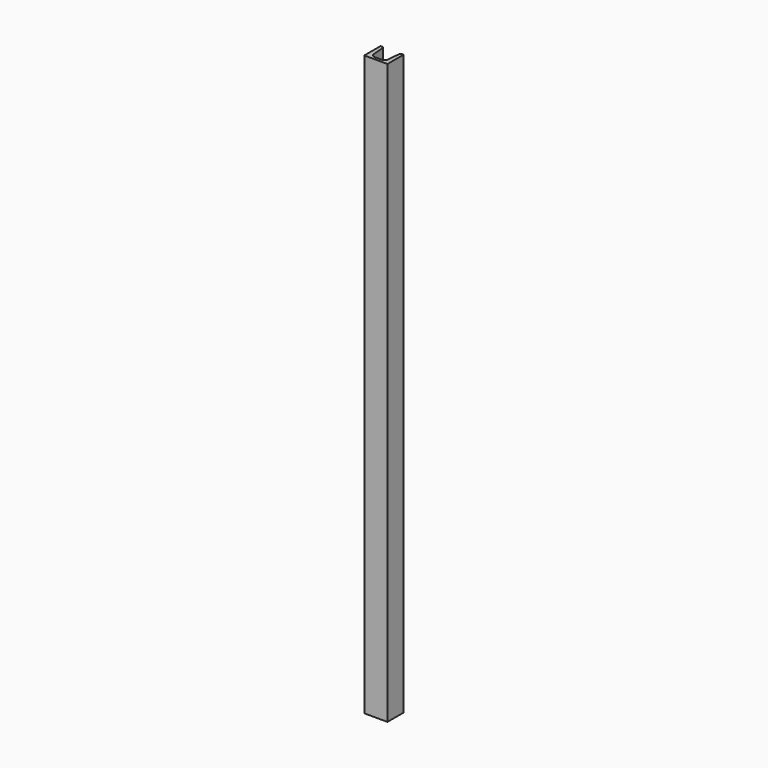
from build123d import *

# Parameters (mm, degrees)
F1_DEPTH = 1000
F2_R     = 3.5
F3_R     = 7


with BuildPart() as f1:
    # F0 (on Top) → F1 (new body)
    with BuildSketch(Plane.XY):
        Polygon((-20, 17.5), (-20, -17.5), (20, -17.5), (20, 17.5), (14.400024, 17.5), (11.999983, -12.5), (-11.999983, -12.5), (-14.400024, 17.5), align=None)
    extrude(amount=-F1_DEPTH)

    # F2
    f2_edges = [f1.edges().sort_by_distance(p)[0] for p in [
        (-14.400024, 17.5, -500),
        (14.400024, 17.5, -500),
    ]]
    fillet(f2_edges, radius=F2_R)

    # F3
    f3_edges = [f1.edges().sort_by_distance(p)[0] for p in [
        (-11.999983, -12.5, -500),
        (11.999983, -12.5, -500),
    ]]
    fillet(f3_edges, radius=F3_R)


solid = f1.part
